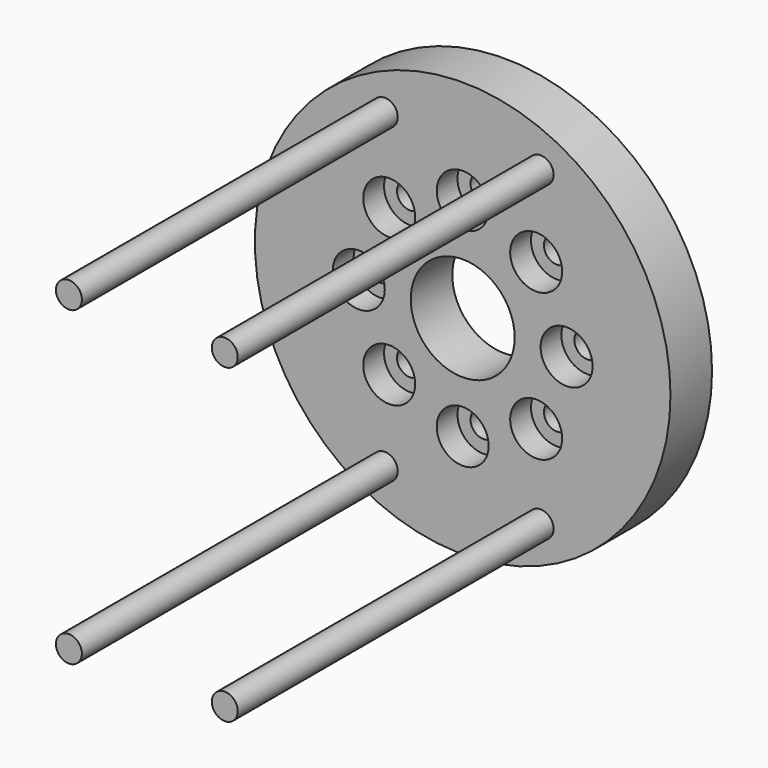
from build123d import *

# Parameters (mm, degrees)
F0_R           = 50.8
F0_R_2         = 12.7
F1_DEPTH       = 12.7
F2_R           = 6.35
F3_DEPTH       = 6.35
F4_D           = 6.35
F4_CBORE_D     = 12.7
F4_CBORE_DEPTH = 6.35
F5_R           = 3.175
F6_DEPTH       = 96.52
F7_R           = 3.175
F8_DEPTH       = 25.4


with BuildPart() as f1:
    # F0 (on Front) → F1 (new body)
    with BuildSketch(Plane.XZ):
        Circle(F0_R)
        Circle(F0_R_2, mode=Mode.SUBTRACT)
    extrude(amount=F1_DEPTH)

    # F2 (on face) → F3 (cut)
    with BuildSketch(Plane.XZ.offset(12.7)):
        with Locations((-17.960512, 17.960512)):
            Circle(F2_R)
        with Locations((17.960512, 17.960512)):
            Circle(F2_R)
        with Locations((17.960512, -17.960512)):
            Circle(F2_R)
        with Locations((-17.960512, -17.960512)):
            Circle(F2_R)
    extrude(amount=-F3_DEPTH, mode=Mode.SUBTRACT)

    # F4 (through all)
    with Locations(Plane.XZ.offset(12.7)):
        with Locations((0, 25.4), (-25.4, 0), (0, -25.4), (25.4, 0)):
            CounterBoreHole(F4_D / 2, F4_CBORE_D / 2, F4_CBORE_DEPTH)

    # F5 (on face) → F6 (join)
    with BuildSketch(Plane.XZ.offset(12.7)):
        with Locations((-19.05, 38.1)):
            Circle(F5_R)
        with Locations((19.05, 38.1)):
            Circle(F5_R)
        with Locations((19.05, -38.1)):
            Circle(F5_R)
        with Locations((-19.05, -38.1)):
            Circle(F5_R)
    extrude(amount=F6_DEPTH)

    # F7 (on face) → F8 (cut)
    with BuildSketch(Plane.XZ.offset(6.35)):
        with Locations((-17.960512, 17.960512)):
            Circle(F7_R)
        with Locations((-17.960512, -17.960512)):
            Circle(F7_R)
        with Locations((17.960512, 17.960512)):
            Circle(F7_R)
        with Locations((17.960512, -17.960512)):
            Circle(F7_R)
    extrude(amount=-F8_DEPTH, mode=Mode.SUBTRACT)


solid = f1.part
